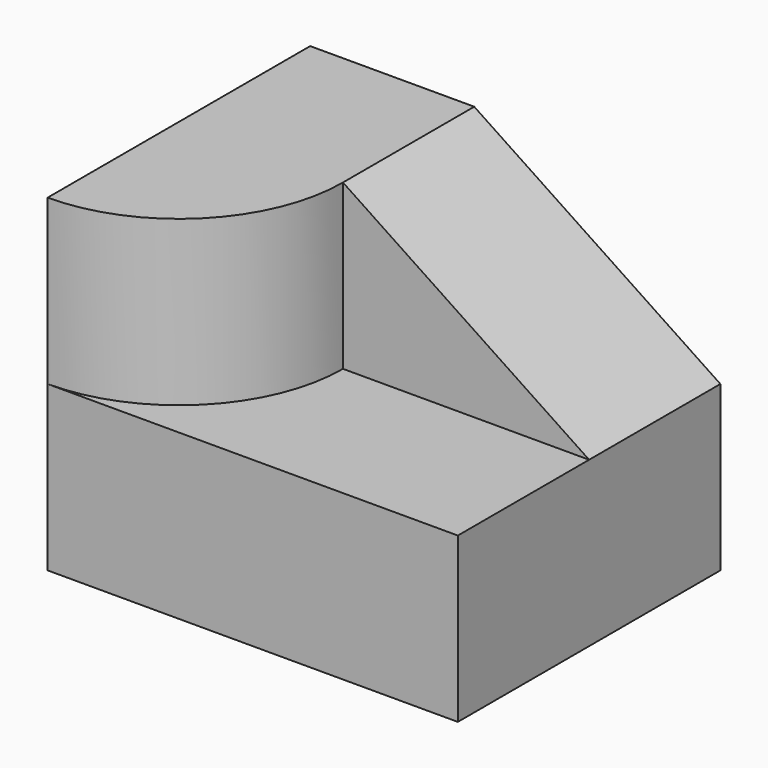
from build123d import *

# Parameters (mm, degrees)
F0_W     = 50
F0_H     = 40
F1_DEPTH = 20
F3_DEPTH = 20
F5_DEPTH = 20


with BuildPart() as f1:
    # F0 (on Top) → F1 (new body)
    with BuildSketch(Plane.XY):
        with Locations((25, 20)):
            Rectangle(F0_W, F0_H)
    extrude(amount=F1_DEPTH)

    # F2 (on face) → F3 (join)
    with BuildSketch(Plane.XY.offset(20)):
        with BuildLine():
            Line((0, 40), (0, 0))
            ThreePointArc((0, 0), (14.142136, 5.857864), (20, 20))
            Line((20, 20), (20, 40))
            Line((20, 40), (0, 40))
        make_face()
    extrude(amount=F3_DEPTH)

    # F4 (on face) → F5 (join)
    with BuildSketch(Plane(origin=(0, 40, 0), x_dir=(-1, 0, 0), z_dir=(0, 1, 0))):
        Polygon((-20, 20), (-20, 40), (-50, 20), align=None)
    extrude(amount=-F5_DEPTH)


solid = f1.part
